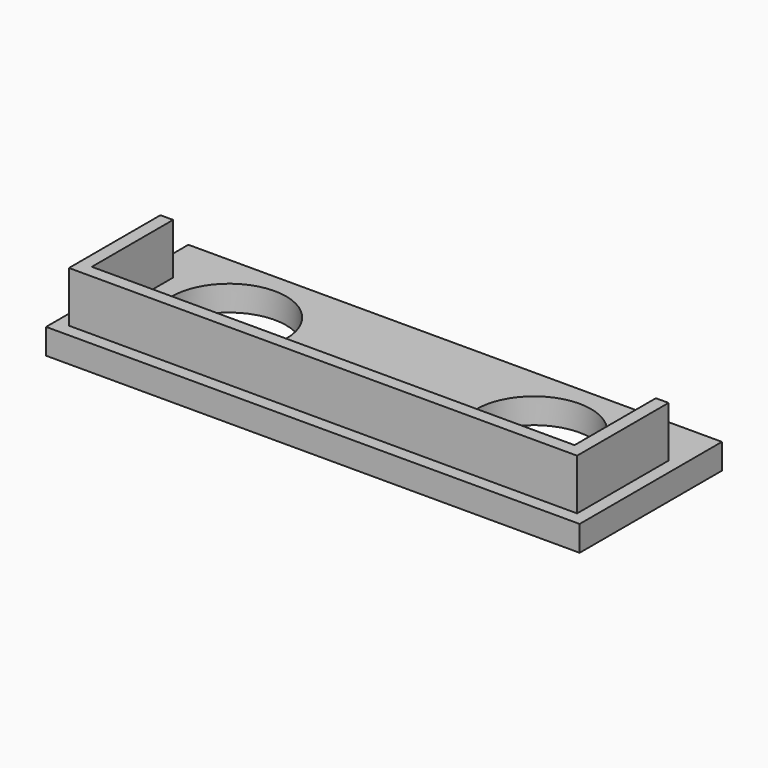
from build123d import *

# Parameters (mm, degrees)
F0_W     = 21
F0_H     = 7
F0_R     = 2.25
F1_DEPTH = 1
F3_DEPTH = 2


with BuildPart() as f1:
    # F0 (on Top) → F1 (new body)
    with BuildSketch(Plane.XY):
        with Locations((0.666112, -0.5)):
            Rectangle(F0_W, F0_H)
        with Locations((-5.833888, 0)):
            Circle(F0_R, mode=Mode.SUBTRACT)
        with Locations((6.166112, 0)):
            Circle(F0_R, mode=Mode.SUBTRACT)
    extrude(amount=F1_DEPTH)

    # F2 (on face) → F3 (join)
    with BuildSketch(Plane.XY.offset(1)):
        Polygon((-8.833888, -3), (-8.833888, 1), (-9.333888, 1), (-9.333888, -3.5), (10.666112, -3.5), (10.666112, 1), (10.166112, 1), (10.166112, -3), align=None)
    extrude(amount=F3_DEPTH)


solid = f1.part
